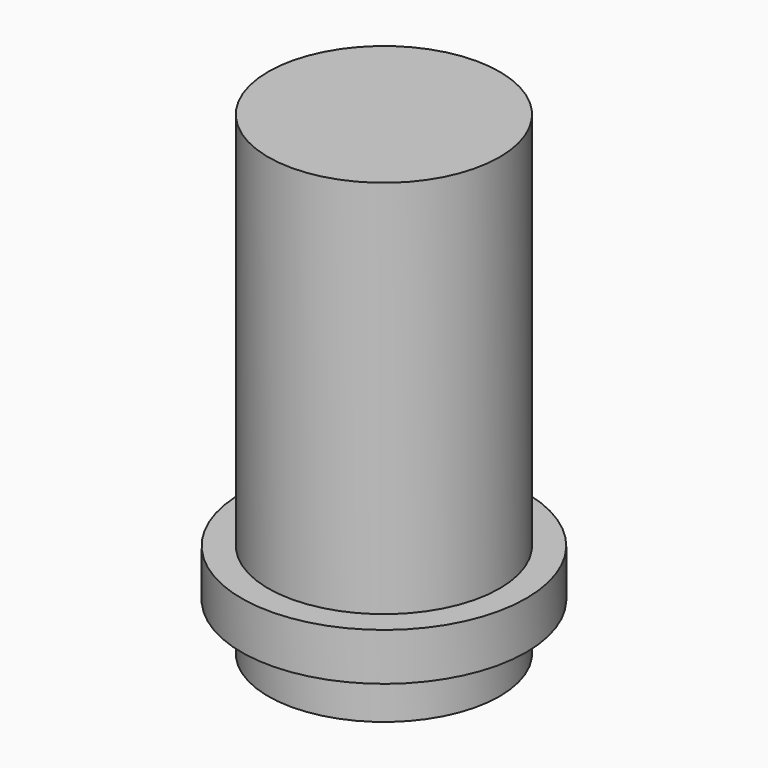
from build123d import *

# Parameters (mm, degrees)
F0_R     = 4.875
F1_DEPTH = 20
F2_START = 2
F0_R_2   = 6
F2_DEPTH = 2


with BuildPart() as f1:
    # F0 (on Top) → F1 (new body)
    with BuildSketch(Plane.XY):
        Circle(F0_R)
    extrude(amount=F1_DEPTH)

    # F0 (on Top) → F2 (join)
    with BuildSketch(Plane.XY.offset(F2_START)):
        Circle(F0_R_2)
        Circle(F0_R, mode=Mode.SUBTRACT)
    extrude(amount=F2_DEPTH)


solid = f1.part
